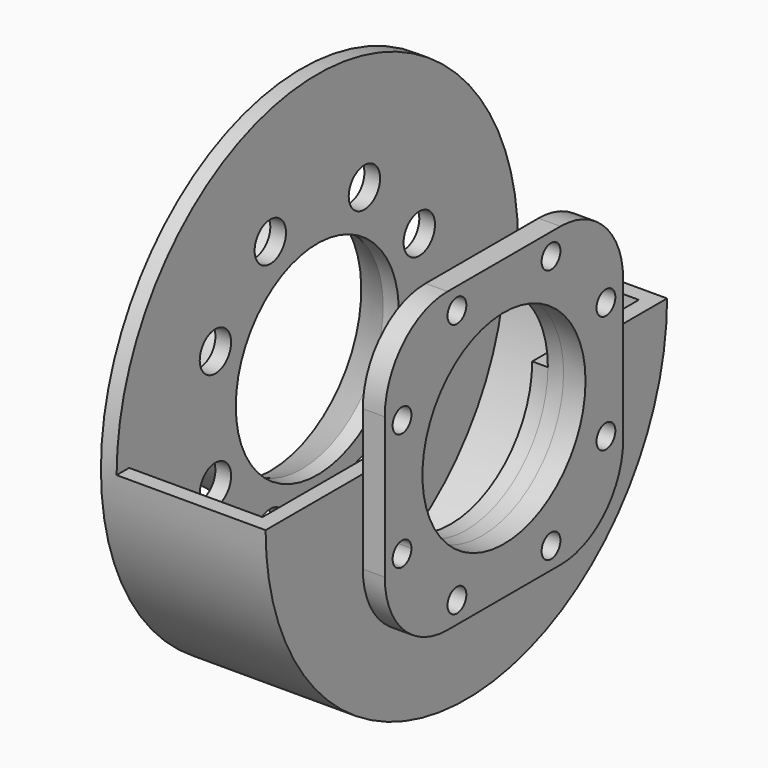
from build123d import *

# Parameters (mm, degrees)
F0_W      = 38
F0_H      = 38
F0_R      = 13
F1_DEPTH  = 2.8
F2_R      = 1.5
F3_DEPTH  = 2
F4_R      = 1
F5_DEPTH  = 1.5
F6_R      = 14.5
F6_R_2    = 13
F7_DEPTH  = 2
F9_DEPTH  = 2
F11_DEPTH = 17
F12_R     = 32
F12_R_2   = 13
F13_DEPTH = 2
F14_R     = 2.5
F15_DEPTH = 10
F18_R     = 10


with BuildPart() as f1:
    # F0 (on Right) → F1 (new body)
    with BuildSketch(Plane.YZ):
        Rectangle(F0_W, F0_H)
        Circle(F0_R, mode=Mode.SUBTRACT)
    extrude(amount=F1_DEPTH)

    # F2 (on face) → F3 (cut)
    with BuildSketch(Plane.YZ.offset(2.8)):
        with Locations((16.25, -7.5)):
            Circle(F2_R)
        with BuildLine():
            ThreePointArc((-14.75, -7.5), (-17.3106601718, -6.4393398282), (-16.25, -9))
            ThreePointArc((-16.25, -9), (-15.1893398282, -8.5606601718), (-14.75, -7.5))
        make_face()
        with Locations((16.25, 7.5)):
            Circle(F2_R)
        with BuildLine():
            ThreePointArc((-6, -16.25), (-7.5, -14.75), (-9, -16.25))
            ThreePointArc((-9, -16.25), (-7.5, -17.75), (-6, -16.25))
        make_face()
        with Locations((7.5, -16.25)):
            Circle(F2_R)
        with Locations((7.5, 16.25)):
            Circle(F2_R)
        with Locations((-16.25, 7.5)):
            Circle(F2_R)
        with Locations((-7.5, 16.25)):
            Circle(F2_R)
    extrude(amount=-F3_DEPTH, mode=Mode.SUBTRACT)

    # F4 (on face) → F5 (cut)
    with BuildSketch(Plane(origin=(0, 0, 0), x_dir=(0, -1, 0), z_dir=(-1, 0, 0))):
        with BuildLine():
            ThreePointArc((-15.25, -7.5), (-16.9571067812, -6.7928932188), (-16.25, -8.5))
            ThreePointArc((-16.25, -8.5), (-15.5428932188, -8.2071067812), (-15.25, -7.5))
        make_face()
        with BuildLine():
            ThreePointArc((-6.5, -16.25), (-7.5, -15.25), (-8.5, -16.25))
            ThreePointArc((-8.5, -16.25), (-7.5, -17.25), (-6.5, -16.25))
        make_face()
        with Locations((-16.25, 7.5)):
            Circle(F4_R)
        with Locations((-7.5, 16.25)):
            Circle(F4_R)
        with Locations((7.5, 16.25)):
            Circle(F4_R)
        with Locations((7.5, -16.25)):
            Circle(F4_R)
        with Locations((16.25, -7.5)):
            Circle(F4_R)
        with Locations((16.25, 7.5)):
            Circle(F4_R)
    extrude(amount=-F5_DEPTH, mode=Mode.SUBTRACT)

    # F6 (on face) → F7 (join)
    with BuildSketch(Plane(origin=(0, 0, 0), x_dir=(0, -1, 0), z_dir=(-1, 0, 0))):
        Circle(F6_R)
        Circle(F6_R_2, mode=Mode.SUBTRACT)
    extrude(amount=F7_DEPTH)

    # F8 (on face) → F9 (join)
    with BuildSketch(Plane(origin=(-2, 0, 0), x_dir=(0, -1, 0), z_dir=(-1, 0, 0))):
        with BuildLine():
            Line((-13, 0), (-14.5, 0))
            ThreePointArc((-14.5, 0), (0, -14.5), (14.5, 0))
            Line((14.5, 0), (13, 0))
            ThreePointArc((13, 0), (0, -13), (-13, 0))
        make_face()
        with BuildLine():
            Line((-14.5, 0), (-32, 0))
            ThreePointArc((-32, 0), (0, -32), (32, 0))
            Line((32, 0), (14.5, 0))
            ThreePointArc((14.5, 0), (0, -14.5), (-14.5, 0))
        make_face()
    extrude(amount=F9_DEPTH)

    # F10 (on face) → F11 (join)
    with BuildSketch(Plane(origin=(-4, 0, 0), x_dir=(0, -1, 0), z_dir=(-1, 0, 0))):
        with BuildLine():
            Line((-30, 0), (-32, 0))
            ThreePointArc((-32, 0), (0, -32), (32, 0))
            Line((32, 0), (30, 0))
            ThreePointArc((30, 0), (0, -30), (-30, 0))
        make_face()
    extrude(amount=F11_DEPTH)

    # F12 (on face) → F13 (join)
    with BuildSketch(Plane(origin=(-21, 0, 0), x_dir=(0, -1, 0), z_dir=(-1, 0, 0))):
        Circle(F12_R)
        Circle(F12_R_2, mode=Mode.SUBTRACT)
    extrude(amount=F13_DEPTH)

    # F14 (on face) → F15 (cut)
    with BuildSketch(Plane(origin=(-23, 0, 0), x_dir=(0, -1, 0), z_dir=(-1, 0, 0))):
        with BuildLine():
            ThreePointArc((-5, -16.25), (-7.5, -13.75), (-10, -16.25))
            ThreePointArc((-10, -16.25), (-7.5, -18.75), (-5, -16.25))
        make_face()
        with BuildLine():
            ThreePointArc((-13.75, -7.5), (-18.017766953, -5.732233047), (-16.25, -10))
            ThreePointArc((-16.25, -10), (-14.482233047, -9.267766953), (-13.75, -7.5))
        make_face()
        with Locations((7.5, -16.25)):
            Circle(F14_R)
        with Locations((16.25, -7.5)):
            Circle(F14_R)
        with Locations((-16.25, 7.5)):
            Circle(F14_R)
        with Locations((16.25, 7.5)):
            Circle(F14_R)
        with Locations((7.5, 16.25)):
            Circle(F14_R)
        with Locations((-7.5, 16.25)):
            Circle(F14_R)
    extrude(amount=-F15_DEPTH, mode=Mode.SUBTRACT)

    # F16 (on Front) → F17 (revolve)
    with BuildSketch(Plane.XZ):
        Polygon((-23, -14.5), (-23, -13), (-27, -14.5), (-27, -16), align=None)
    revolve(axis=Axis((-14.0123711899, 0, 0), (-1, 0, 0)))

    # F18
    f18_edges = [f1.edges().sort_by_distance(p)[0] for p in [
        (1.4, 19, 19),
        (1.4, 19, -19),
        (1.4, -19, -19),
        (1.4, -19, 19),
    ]]
    fillet(f18_edges, radius=F18_R)


solid = f1.part
